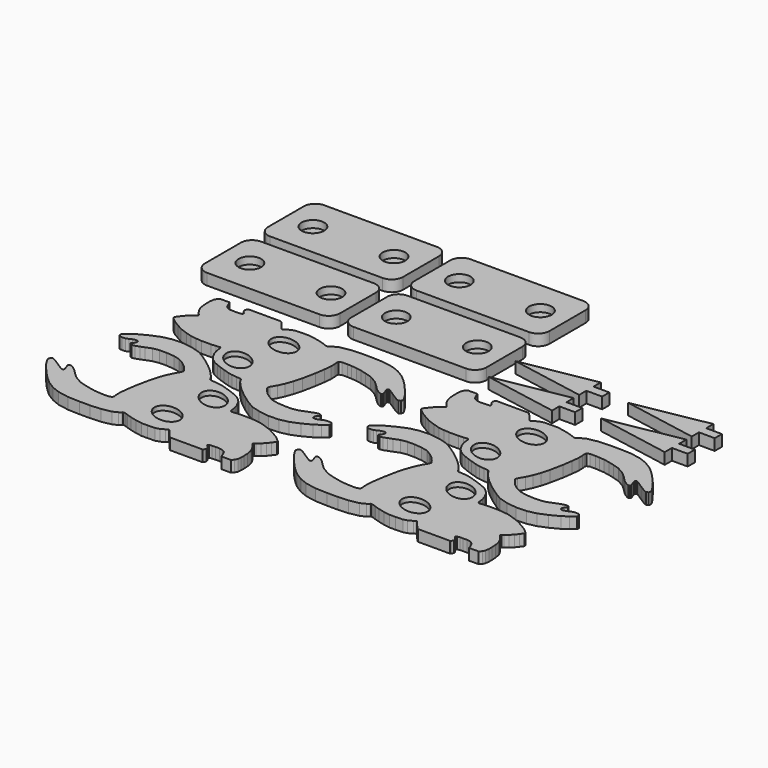
from build123d import *

# Parameters (mm, degrees)
SKETCH020_W               = 16.980982
SKETCH020_H               = 37.458043
PAD013_DEPTH              = 5
PAD012_DEPTH              = 5
POCKET006_DEPTH           = 2
SKETCH017_W               = 16.980982
SKETCH017_H               = 37.458043
PAD011_DEPTH              = 5
PAD010_DEPTH              = 5
POCKET005_DEPTH           = 2
CUT004_PLACEMENT_ANGLE    = 180
SKETCH011_W               = 16.980982
SKETCH011_H               = 37.458043
PAD007_DEPTH              = 5
PAD006_DEPTH              = 5
POCKET003_DEPTH           = 2
SKETCH008_W               = 16.980982
SKETCH008_H               = 37.458043
PAD005_DEPTH              = 5
PAD004_DEPTH              = 5
POCKET002_DEPTH           = 2
CUT001_PLACEMENT_ANGLE    = 180
PAD002_DEPTH              = 5
BODY002_PLACEMENT_ANGLE   = 180
PAD017_DEPTH              = 5
BODY017_PLACEMENT_ANGLE   = 180
PAD018_DEPTH              = 5
BODY018_PLACEMENT_ANGLE   = 180
PAD019_DEPTH              = 5
BODY019_PLACEMENT_ANGLE   = 180
SKETCH004_W               = 30
SKETCH004_H               = 60
PAD003_DEPTH              = 5
FILLET_R                  = 5
SKETCH005_R               = 5
POCKET001_DEPTH           = 3.2
SKETCH021_W               = 30
SKETCH021_H               = 60
PAD014_DEPTH              = 5
FILLET001_R               = 5
SKETCH022_R               = 5
POCKET007_DEPTH           = 3.2
SKETCH023_W               = 30
SKETCH023_H               = 60
PAD015_DEPTH              = 5
FILLET002_R               = 5
SKETCH024_R               = 5
POCKET008_DEPTH           = 3.2
SKETCH025_W               = 30
SKETCH025_H               = 60
PAD016_DEPTH              = 5
FILLET003_R               = 5
SKETCH026_R               = 5
POCKET009_DEPTH           = 3.2
FUSION004_PLACEMENT_ANGLE = 90


with BuildPart() as body013:
    # Sketch020 → Pad013 (new body)
    with BuildSketch(Plane.XY):
        with Locations((-33.035941, -22.865994)):
            Rectangle(SKETCH020_W, SKETCH020_H)
    extrude(amount=PAD013_DEPTH)


with BuildPart() as obj1:
    # Sketch018 → Pad012 (new body)
    with BuildSketch(Plane.XY):
        Polygon((-3.977374, 57.528042), (-4.62839, 57.787308), (-5.059453, 57.756519), (-5.890786, 57.325455), (-8.261625, 55.84753), (-10.724834, 53.907753), (-14.234909, 50.797951), (-16.488501, 48.538963), (-18.459068, 46.291286), (-20.552797, 42.904373), (-21.969143, 39.394299), (-22.874966, 34.517551), (-23.080542, 29.24115), (-23.080542, 24.512947), (-22.806442, 19.921793), (-21.984146, 15.673264), (-20.931427, 13.541588), (-20.196489, 12.576984), (-19.922314, 12.362477), (-19.888332, 12.022666), (-19.956295, 11.501621), (-20.182837, 10.754036), (-20.579283, 9.768582), (-21.205084, 7.728108), (-21.844406, 5.058001), (-22.3333, 2.237465), (-22.3333, -0.47025), (-22.220192, -3.680502), (-21.731298, -5.410431), (-20.753513, -7.215574), (-20.227013, -8.005324), (-20.187271, -8.178533), (-20.233109, -8.386882), (-20.403955, -8.599399), (-20.908161, -8.986929), (-22.154099, -9.994506), (-23.824734, -11.428793), (-25.33345, -13.214621), (-26.903748, -15.52388), (-28.227722, -19.372646), (-28.227722, -22.090714), (-26.90617, -23.999701), (-25.705355, -25.385256), (-24.165846, -26.955553), (-23.303724, -27.325035), (-22.53397, -27.140293), (-21.733427, -26.524492), (-21.056046, -25.877899), (-20.471031, -26.30896), (-20.317081, -27.448195), (-20.255501, -28.895332), (-20.255501, -30.695551), (-20.471138, -32.142689), (-21.333261, -33.589825), (-22.749607, -34.328785), (-24.535435, -34.97538), (-25.582298, -35.652763), (-27.583658, -37.099899), (-26.466297, -38.077568), (-25.434336, -38.015652), (-24.650045, -39.130169), (-23.576805, -40.141491), (-22.482924, -40.636833), (-20.908491, -40.844303), (-19.195435, -40.844303), (-17.214067, -40.741108), (-14.902472, -40.348961), (-13.519643, -39.709145), (-12.508322, -39.08997), (-11.538276, -38.367596), (-10.733345, -37.645222), (-10.258643, -37.397552), (-9.804581, -37.624584), (-9.350516, -38.285038), (-8.316945, -39.69281), (-6.877927, -40.994781), (-5.507432, -42.091175), (-3.999888, -43.187572), (-3.383168, -43.119045), (-2.560872, -42.159702), (-1.327426, -40.652157), (0, -38.417194), (1.533442, -35.719849), (2.718258, -32.467911), (3.579239, -29.654877), (3.906954, -27.184412), (4.108624, -24.638319), (4.108624, -22.999746), (4.108624, -20.463024), (3.950882, -18.319418), (3.762846, -16.514273), (4.439775, -16.100595), (5.680811, -15.950167), (7.072274, -15.724524), (8.726989, -15.198024), (10.118454, -14.483488), (11.434704, -13.731346), (12.720697, -12.473278), (13.886518, -10.893778), (14.676268, -9.088635), (15.503627, -7.020243), (16.181381, -4.980232), (17.046347, -2.347732), (17.460026, -0.39216), (17.687353, 1.724155), (17.83778, 3.679727), (18.213852, 4.206226), (19.793352, 5.108798), (21.786531, 6.876333), (23.565575, 8.639679), (25.862247, 11.349754), (27.837389, 13.922029), (30.042194, 17.137373), (31.780235, 20.102432), (32.951984, 24.119852), (33.621552, 28.723146), (33.454159, 33.242744), (32.617195, 37.09277), (31.026974, 41.026493), (29.018257, 44.876518), (27.344334, 47.387405), (25.67041, 49.479813), (24.637573, 49.479813), (23.898611, 48.926289), (23.775448, 47.756264), (23.867819, 46.309128), (24.329672, 45.139103), (24.914684, 43.938286), (25.222586, 42.645103), (25.068634, 41.690609), (24.329672, 41.382706), (23.282808, 41.813766), (22.297523, 42.737473), (21.62014, 42.367992), (21.373819, 41.567448), (21.589401, 40.264072), (22.205204, 38.601406), (22.882483, 36.809189), (23.867092, 34.246101), (24.328943, 31.56736), (24.328943, 28.388382), (24.020599, 24.939888), (23.372599, 22.159571), (22.079414, 19.819519), (20.478329, 17.75658), (18.692501, 16.186285), (17.614847, 15.385742), (17.152994, 15.139421), (16.1985, 15.478112), (13.704499, 16.925249), (11.109124, 18.146231), (7.96734, 19.268295), (4.264523, 20.278154), (-1.562892, 21.46686), (-5.742837, 22.063995), (-9.050048, 22.431463), (-11.300789, 22.339596), (-12.586926, 22.201796), (-13.275928, 22.38553), (-13.781198, 23.5798), (-13.781198, 26.014275), (-13.667527, 27.819324), (-13.502415, 30.069002), (-12.986451, 32.615383), (-12.346076, 35.158173), (-11.499866, 38.027027), (-9.518498, 41.45314), (-7.679979, 43.467682), (-5.491951, 45.655712), (-4.553504, 46.874596), (-3.885208, 48.075264), (-3.760611, 48.777538), (-3.896535, 49.19664), (-4.281655, 49.434509), (-4.780046, 49.332565), (-5.369052, 49.072044), (-6.037349, 48.834175), (-6.784935, 48.596306), (-7.271997, 48.449055), (-7.738668, 48.585323), (-7.931229, 49.163006), (-7.670706, 49.695377), (-7.149662, 50.533577), (-6.379942, 51.742527), (-5.554372, 53.001522), (-4.708163, 54.322433), (-3.841315, 55.725903), (-3.490448, 56.737225), align=None)
    extrude(amount=PAD012_DEPTH)

    # Sketch019 (on Face188 of Pad012) → Pocket006 (cut)
    with BuildSketch(Plane.XY.offset(5)):
        with BuildLine():
            add(Edge.make_bspline(
                [(-9.103317, 5.942908), (-16.966556, 8.642811), (-16.239961, -2.041503), (-15.513366, -12.725816), (-8.376722, -4.741406), (-1.240078, 3.243005), (-9.103317, 5.942908)],
                knots=[0, 0, 0, 2.094395, 2.094395, 4.18879, 4.18879, 6.283185, 6.283185, 6.283185], degree=2, weights=[1, 0.5, 1, 0.5, 1, 0.5, 1]))
        make_face()
        with BuildLine():
            add(Edge.make_bspline(
                [(10.507138, -0.113946), (3.233814, 3.913307), (2.089769, -6.7344), (0.945724, -17.382107), (9.363093, -10.761653), (17.780461, -4.141199), (10.507138, -0.113946)],
                knots=[0, 0, 0, 2.094395, 2.094395, 4.18879, 4.18879, 6.283185, 6.283185, 6.283185], degree=2, weights=[1, 0.5, 1, 0.5, 1, 0.5, 1]))
        make_face()
    extrude(amount=-POCKET006_DEPTH, mode=Mode.SUBTRACT)

    # Cut005: cut Body013
    add(body013.part, mode=Mode.SUBTRACT)


with BuildPart() as obj1_1:
    # Cut005 placement: moved
    add(obj1.part.moved(Location((-60, 50, -5))))


with BuildPart() as body011:
    # Sketch017 → Pad011 (new body)
    with BuildSketch(Plane.XY):
        with Locations((-33.035941, -22.865994)):
            Rectangle(SKETCH017_W, SKETCH017_H)
    extrude(amount=PAD011_DEPTH)


with BuildPart() as part3:
    # Sketch015 → Pad010 (new body)
    with BuildSketch(Plane.XY):
        Polygon((-3.977374, 57.528042), (-4.62839, 57.787308), (-5.059453, 57.756519), (-5.890786, 57.325455), (-8.261625, 55.84753), (-10.724834, 53.907753), (-14.234909, 50.797951), (-16.488501, 48.538963), (-18.459068, 46.291286), (-20.552797, 42.904373), (-21.969143, 39.394299), (-22.874966, 34.517551), (-23.080542, 29.24115), (-23.080542, 24.512947), (-22.806442, 19.921793), (-21.984146, 15.673264), (-20.931427, 13.541588), (-20.196489, 12.576984), (-19.922314, 12.362477), (-19.888332, 12.022666), (-19.956295, 11.501621), (-20.182837, 10.754036), (-20.579283, 9.768582), (-21.205084, 7.728108), (-21.844406, 5.058001), (-22.3333, 2.237465), (-22.3333, -0.47025), (-22.220192, -3.680502), (-21.731298, -5.410431), (-20.753513, -7.215574), (-20.227013, -8.005324), (-20.187271, -8.178533), (-20.233109, -8.386882), (-20.403955, -8.599399), (-20.908161, -8.986929), (-22.154099, -9.994506), (-23.824734, -11.428793), (-25.33345, -13.214621), (-26.903748, -15.52388), (-28.227722, -19.372646), (-28.227722, -22.090714), (-26.90617, -23.999701), (-25.705355, -25.385256), (-24.165846, -26.955553), (-23.303724, -27.325035), (-22.53397, -27.140293), (-21.733427, -26.524492), (-21.056046, -25.877899), (-20.471031, -26.30896), (-20.317081, -27.448195), (-20.255501, -28.895332), (-20.255501, -30.695551), (-20.471138, -32.142689), (-21.333261, -33.589825), (-22.749607, -34.328785), (-24.535435, -34.97538), (-25.582298, -35.652763), (-27.583658, -37.099899), (-26.466297, -38.077568), (-25.434336, -38.015652), (-24.650045, -39.130169), (-23.576805, -40.141491), (-22.482924, -40.636833), (-20.908491, -40.844303), (-19.195435, -40.844303), (-17.214067, -40.741108), (-14.902472, -40.348961), (-13.519643, -39.709145), (-12.508322, -39.08997), (-11.538276, -38.367596), (-10.733345, -37.645222), (-10.258643, -37.397552), (-9.804581, -37.624584), (-9.350516, -38.285038), (-8.316945, -39.69281), (-6.877927, -40.994781), (-5.507432, -42.091175), (-3.999888, -43.187572), (-3.383168, -43.119045), (-2.560872, -42.159702), (-1.327426, -40.652157), (0, -38.417194), (1.533442, -35.719849), (2.718258, -32.467911), (3.579239, -29.654877), (3.906954, -27.184412), (4.108624, -24.638319), (4.108624, -22.999746), (4.108624, -20.463024), (3.950882, -18.319418), (3.762846, -16.514273), (4.439775, -16.100595), (5.680811, -15.950167), (7.072274, -15.724524), (8.726989, -15.198024), (10.118454, -14.483488), (11.434704, -13.731346), (12.720697, -12.473278), (13.886518, -10.893778), (14.676268, -9.088635), (15.503627, -7.020243), (16.181381, -4.980232), (17.046347, -2.347732), (17.460026, -0.39216), (17.687353, 1.724155), (17.83778, 3.679727), (18.213852, 4.206226), (19.793352, 5.108798), (21.786531, 6.876333), (23.565575, 8.639679), (25.862247, 11.349754), (27.837389, 13.922029), (30.042194, 17.137373), (31.780235, 20.102432), (32.951984, 24.119852), (33.621552, 28.723146), (33.454159, 33.242744), (32.617195, 37.09277), (31.026974, 41.026493), (29.018257, 44.876518), (27.344334, 47.387405), (25.67041, 49.479813), (24.637573, 49.479813), (23.898611, 48.926289), (23.775448, 47.756264), (23.867819, 46.309128), (24.329672, 45.139103), (24.914684, 43.938286), (25.222586, 42.645103), (25.068634, 41.690609), (24.329672, 41.382706), (23.282808, 41.813766), (22.297523, 42.737473), (21.62014, 42.367992), (21.373819, 41.567448), (21.589401, 40.264072), (22.205204, 38.601406), (22.882483, 36.809189), (23.867092, 34.246101), (24.328943, 31.56736), (24.328943, 28.388382), (24.020599, 24.939888), (23.372599, 22.159571), (22.079414, 19.819519), (20.478329, 17.75658), (18.692501, 16.186285), (17.614847, 15.385742), (17.152994, 15.139421), (16.1985, 15.478112), (13.704499, 16.925249), (11.109124, 18.146231), (7.96734, 19.268295), (4.264523, 20.278154), (-1.562892, 21.46686), (-5.742837, 22.063995), (-9.050048, 22.431463), (-11.300789, 22.339596), (-12.586926, 22.201796), (-13.275928, 22.38553), (-13.781198, 23.5798), (-13.781198, 26.014275), (-13.667527, 27.819324), (-13.502415, 30.069002), (-12.986451, 32.615383), (-12.346076, 35.158173), (-11.499866, 38.027027), (-9.518498, 41.45314), (-7.679979, 43.467682), (-5.491951, 45.655712), (-4.553504, 46.874596), (-3.885208, 48.075264), (-3.760611, 48.777538), (-3.896535, 49.19664), (-4.281655, 49.434509), (-4.780046, 49.332565), (-5.369052, 49.072044), (-6.037349, 48.834175), (-6.784935, 48.596306), (-7.271997, 48.449055), (-7.738668, 48.585323), (-7.931229, 49.163006), (-7.670706, 49.695377), (-7.149662, 50.533577), (-6.379942, 51.742527), (-5.554372, 53.001522), (-4.708163, 54.322433), (-3.841315, 55.725903), (-3.490448, 56.737225), align=None)
    extrude(amount=PAD010_DEPTH)

    # Sketch016 (on Face188 of Pad010) → Pocket005 (cut)
    with BuildSketch(Plane.XY.offset(5)):
        with BuildLine():
            add(Edge.make_bspline(
                [(-9.103317, 5.942908), (-16.966556, 8.642811), (-16.239961, -2.041503), (-15.513366, -12.725816), (-8.376722, -4.741406), (-1.240078, 3.243005), (-9.103317, 5.942908)],
                knots=[0, 0, 0, 2.094395, 2.094395, 4.18879, 4.18879, 6.283185, 6.283185, 6.283185], degree=2, weights=[1, 0.5, 1, 0.5, 1, 0.5, 1]))
        make_face()
        with BuildLine():
            add(Edge.make_bspline(
                [(10.507138, -0.113946), (3.233814, 3.913307), (2.089769, -6.7344), (0.945724, -17.382107), (9.363093, -10.761653), (17.780461, -4.141199), (10.507138, -0.113946)],
                knots=[0, 0, 0, 2.094395, 2.094395, 4.18879, 4.18879, 6.283185, 6.283185, 6.283185], degree=2, weights=[1, 0.5, 1, 0.5, 1, 0.5, 1]))
        make_face()
    extrude(amount=-POCKET005_DEPTH, mode=Mode.SUBTRACT)

    # Cut004: cut Body011
    add(body011.part, mode=Mode.SUBTRACT)


with BuildPart() as part3_1:
    # Cut004 placement: moved
    add(part3.part.moved(Location((-17, 50, -5))).rotate(Axis((-17, 50, -5), (0, 0, 1)), CUT004_PLACEMENT_ANGLE))

    # Fusion002: union obj1
    add(obj1_1.part)


with BuildPart() as body007:
    # Sketch011 → Pad007 (new body)
    with BuildSketch(Plane.XY):
        with Locations((-33.035941, -22.865994)):
            Rectangle(SKETCH011_W, SKETCH011_H)
    extrude(amount=PAD007_DEPTH)


with BuildPart() as obj2:
    # Sketch009 → Pad006 (new body)
    with BuildSketch(Plane.XY):
        Polygon((-3.977374, 57.528042), (-4.62839, 57.787308), (-5.059453, 57.756519), (-5.890786, 57.325455), (-8.261625, 55.84753), (-10.724834, 53.907753), (-14.234909, 50.797951), (-16.488501, 48.538963), (-18.459068, 46.291286), (-20.552797, 42.904373), (-21.969143, 39.394299), (-22.874966, 34.517551), (-23.080542, 29.24115), (-23.080542, 24.512947), (-22.806442, 19.921793), (-21.984146, 15.673264), (-20.931427, 13.541588), (-20.196489, 12.576984), (-19.922314, 12.362477), (-19.888332, 12.022666), (-19.956295, 11.501621), (-20.182837, 10.754036), (-20.579283, 9.768582), (-21.205084, 7.728108), (-21.844406, 5.058001), (-22.3333, 2.237465), (-22.3333, -0.47025), (-22.220192, -3.680502), (-21.731298, -5.410431), (-20.753513, -7.215574), (-20.227013, -8.005324), (-20.187271, -8.178533), (-20.233109, -8.386882), (-20.403955, -8.599399), (-20.908161, -8.986929), (-22.154099, -9.994506), (-23.824734, -11.428793), (-25.33345, -13.214621), (-26.903748, -15.52388), (-28.227722, -19.372646), (-28.227722, -22.090714), (-26.90617, -23.999701), (-25.705355, -25.385256), (-24.165846, -26.955553), (-23.303724, -27.325035), (-22.53397, -27.140293), (-21.733427, -26.524492), (-21.056046, -25.877899), (-20.471031, -26.30896), (-20.317081, -27.448195), (-20.255501, -28.895332), (-20.255501, -30.695551), (-20.471138, -32.142689), (-21.333261, -33.589825), (-22.749607, -34.328785), (-24.535435, -34.97538), (-25.582298, -35.652763), (-27.583658, -37.099899), (-26.466297, -38.077568), (-25.434336, -38.015652), (-24.650045, -39.130169), (-23.576805, -40.141491), (-22.482924, -40.636833), (-20.908491, -40.844303), (-19.195435, -40.844303), (-17.214067, -40.741108), (-14.902472, -40.348961), (-13.519643, -39.709145), (-12.508322, -39.08997), (-11.538276, -38.367596), (-10.733345, -37.645222), (-10.258643, -37.397552), (-9.804581, -37.624584), (-9.350516, -38.285038), (-8.316945, -39.69281), (-6.877927, -40.994781), (-5.507432, -42.091175), (-3.999888, -43.187572), (-3.383168, -43.119045), (-2.560872, -42.159702), (-1.327426, -40.652157), (0, -38.417194), (1.533442, -35.719849), (2.718258, -32.467911), (3.579239, -29.654877), (3.906954, -27.184412), (4.108624, -24.638319), (4.108624, -22.999746), (4.108624, -20.463024), (3.950882, -18.319418), (3.762846, -16.514273), (4.439775, -16.100595), (5.680811, -15.950167), (7.072274, -15.724524), (8.726989, -15.198024), (10.118454, -14.483488), (11.434704, -13.731346), (12.720697, -12.473278), (13.886518, -10.893778), (14.676268, -9.088635), (15.503627, -7.020243), (16.181381, -4.980232), (17.046347, -2.347732), (17.460026, -0.39216), (17.687353, 1.724155), (17.83778, 3.679727), (18.213852, 4.206226), (19.793352, 5.108798), (21.786531, 6.876333), (23.565575, 8.639679), (25.862247, 11.349754), (27.837389, 13.922029), (30.042194, 17.137373), (31.780235, 20.102432), (32.951984, 24.119852), (33.621552, 28.723146), (33.454159, 33.242744), (32.617195, 37.09277), (31.026974, 41.026493), (29.018257, 44.876518), (27.344334, 47.387405), (25.67041, 49.479813), (24.637573, 49.479813), (23.898611, 48.926289), (23.775448, 47.756264), (23.867819, 46.309128), (24.329672, 45.139103), (24.914684, 43.938286), (25.222586, 42.645103), (25.068634, 41.690609), (24.329672, 41.382706), (23.282808, 41.813766), (22.297523, 42.737473), (21.62014, 42.367992), (21.373819, 41.567448), (21.589401, 40.264072), (22.205204, 38.601406), (22.882483, 36.809189), (23.867092, 34.246101), (24.328943, 31.56736), (24.328943, 28.388382), (24.020599, 24.939888), (23.372599, 22.159571), (22.079414, 19.819519), (20.478329, 17.75658), (18.692501, 16.186285), (17.614847, 15.385742), (17.152994, 15.139421), (16.1985, 15.478112), (13.704499, 16.925249), (11.109124, 18.146231), (7.96734, 19.268295), (4.264523, 20.278154), (-1.562892, 21.46686), (-5.742837, 22.063995), (-9.050048, 22.431463), (-11.300789, 22.339596), (-12.586926, 22.201796), (-13.275928, 22.38553), (-13.781198, 23.5798), (-13.781198, 26.014275), (-13.667527, 27.819324), (-13.502415, 30.069002), (-12.986451, 32.615383), (-12.346076, 35.158173), (-11.499866, 38.027027), (-9.518498, 41.45314), (-7.679979, 43.467682), (-5.491951, 45.655712), (-4.553504, 46.874596), (-3.885208, 48.075264), (-3.760611, 48.777538), (-3.896535, 49.19664), (-4.281655, 49.434509), (-4.780046, 49.332565), (-5.369052, 49.072044), (-6.037349, 48.834175), (-6.784935, 48.596306), (-7.271997, 48.449055), (-7.738668, 48.585323), (-7.931229, 49.163006), (-7.670706, 49.695377), (-7.149662, 50.533577), (-6.379942, 51.742527), (-5.554372, 53.001522), (-4.708163, 54.322433), (-3.841315, 55.725903), (-3.490448, 56.737225), align=None)
    extrude(amount=PAD006_DEPTH)

    # Sketch010 (on Face188 of Pad006) → Pocket003 (cut)
    with BuildSketch(Plane.XY.offset(5)):
        with BuildLine():
            add(Edge.make_bspline(
                [(-9.103317, 5.942908), (-16.966556, 8.642811), (-16.239961, -2.041503), (-15.513366, -12.725816), (-8.376722, -4.741406), (-1.240078, 3.243005), (-9.103317, 5.942908)],
                knots=[0, 0, 0, 2.094395, 2.094395, 4.18879, 4.18879, 6.283185, 6.283185, 6.283185], degree=2, weights=[1, 0.5, 1, 0.5, 1, 0.5, 1]))
        make_face()
        with BuildLine():
            add(Edge.make_bspline(
                [(10.507138, -0.113946), (3.233814, 3.913307), (2.089769, -6.7344), (0.945724, -17.382107), (9.363093, -10.761653), (17.780461, -4.141199), (10.507138, -0.113946)],
                knots=[0, 0, 0, 2.094395, 2.094395, 4.18879, 4.18879, 6.283185, 6.283185, 6.283185], degree=2, weights=[1, 0.5, 1, 0.5, 1, 0.5, 1]))
        make_face()
    extrude(amount=-POCKET003_DEPTH, mode=Mode.SUBTRACT)

    # Cut002: cut Body007
    add(body007.part, mode=Mode.SUBTRACT)


with BuildPart() as obj2_1:
    # Cut002 placement: moved
    add(obj2.part.moved(Location((-60, -60, -5))))


with BuildPart() as body005:
    # Sketch008 → Pad005 (new body)
    with BuildSketch(Plane.XY):
        with Locations((-33.035941, -22.865994)):
            Rectangle(SKETCH008_W, SKETCH008_H)
    extrude(amount=PAD005_DEPTH)


with BuildPart() as part4:
    # Sketch006 → Pad004 (new body)
    with BuildSketch(Plane.XY):
        Polygon((-3.977374, 57.528042), (-4.62839, 57.787308), (-5.059453, 57.756519), (-5.890786, 57.325455), (-8.261625, 55.84753), (-10.724834, 53.907753), (-14.234909, 50.797951), (-16.488501, 48.538963), (-18.459068, 46.291286), (-20.552797, 42.904373), (-21.969143, 39.394299), (-22.874966, 34.517551), (-23.080542, 29.24115), (-23.080542, 24.512947), (-22.806442, 19.921793), (-21.984146, 15.673264), (-20.931427, 13.541588), (-20.196489, 12.576984), (-19.922314, 12.362477), (-19.888332, 12.022666), (-19.956295, 11.501621), (-20.182837, 10.754036), (-20.579283, 9.768582), (-21.205084, 7.728108), (-21.844406, 5.058001), (-22.3333, 2.237465), (-22.3333, -0.47025), (-22.220192, -3.680502), (-21.731298, -5.410431), (-20.753513, -7.215574), (-20.227013, -8.005324), (-20.187271, -8.178533), (-20.233109, -8.386882), (-20.403955, -8.599399), (-20.908161, -8.986929), (-22.154099, -9.994506), (-23.824734, -11.428793), (-25.33345, -13.214621), (-26.903748, -15.52388), (-28.227722, -19.372646), (-28.227722, -22.090714), (-26.90617, -23.999701), (-25.705355, -25.385256), (-24.165846, -26.955553), (-23.303724, -27.325035), (-22.53397, -27.140293), (-21.733427, -26.524492), (-21.056046, -25.877899), (-20.471031, -26.30896), (-20.317081, -27.448195), (-20.255501, -28.895332), (-20.255501, -30.695551), (-20.471138, -32.142689), (-21.333261, -33.589825), (-22.749607, -34.328785), (-24.535435, -34.97538), (-25.582298, -35.652763), (-27.583658, -37.099899), (-26.466297, -38.077568), (-25.434336, -38.015652), (-24.650045, -39.130169), (-23.576805, -40.141491), (-22.482924, -40.636833), (-20.908491, -40.844303), (-19.195435, -40.844303), (-17.214067, -40.741108), (-14.902472, -40.348961), (-13.519643, -39.709145), (-12.508322, -39.08997), (-11.538276, -38.367596), (-10.733345, -37.645222), (-10.258643, -37.397552), (-9.804581, -37.624584), (-9.350516, -38.285038), (-8.316945, -39.69281), (-6.877927, -40.994781), (-5.507432, -42.091175), (-3.999888, -43.187572), (-3.383168, -43.119045), (-2.560872, -42.159702), (-1.327426, -40.652157), (0, -38.417194), (1.533442, -35.719849), (2.718258, -32.467911), (3.579239, -29.654877), (3.906954, -27.184412), (4.108624, -24.638319), (4.108624, -22.999746), (4.108624, -20.463024), (3.950882, -18.319418), (3.762846, -16.514273), (4.439775, -16.100595), (5.680811, -15.950167), (7.072274, -15.724524), (8.726989, -15.198024), (10.118454, -14.483488), (11.434704, -13.731346), (12.720697, -12.473278), (13.886518, -10.893778), (14.676268, -9.088635), (15.503627, -7.020243), (16.181381, -4.980232), (17.046347, -2.347732), (17.460026, -0.39216), (17.687353, 1.724155), (17.83778, 3.679727), (18.213852, 4.206226), (19.793352, 5.108798), (21.786531, 6.876333), (23.565575, 8.639679), (25.862247, 11.349754), (27.837389, 13.922029), (30.042194, 17.137373), (31.780235, 20.102432), (32.951984, 24.119852), (33.621552, 28.723146), (33.454159, 33.242744), (32.617195, 37.09277), (31.026974, 41.026493), (29.018257, 44.876518), (27.344334, 47.387405), (25.67041, 49.479813), (24.637573, 49.479813), (23.898611, 48.926289), (23.775448, 47.756264), (23.867819, 46.309128), (24.329672, 45.139103), (24.914684, 43.938286), (25.222586, 42.645103), (25.068634, 41.690609), (24.329672, 41.382706), (23.282808, 41.813766), (22.297523, 42.737473), (21.62014, 42.367992), (21.373819, 41.567448), (21.589401, 40.264072), (22.205204, 38.601406), (22.882483, 36.809189), (23.867092, 34.246101), (24.328943, 31.56736), (24.328943, 28.388382), (24.020599, 24.939888), (23.372599, 22.159571), (22.079414, 19.819519), (20.478329, 17.75658), (18.692501, 16.186285), (17.614847, 15.385742), (17.152994, 15.139421), (16.1985, 15.478112), (13.704499, 16.925249), (11.109124, 18.146231), (7.96734, 19.268295), (4.264523, 20.278154), (-1.562892, 21.46686), (-5.742837, 22.063995), (-9.050048, 22.431463), (-11.300789, 22.339596), (-12.586926, 22.201796), (-13.275928, 22.38553), (-13.781198, 23.5798), (-13.781198, 26.014275), (-13.667527, 27.819324), (-13.502415, 30.069002), (-12.986451, 32.615383), (-12.346076, 35.158173), (-11.499866, 38.027027), (-9.518498, 41.45314), (-7.679979, 43.467682), (-5.491951, 45.655712), (-4.553504, 46.874596), (-3.885208, 48.075264), (-3.760611, 48.777538), (-3.896535, 49.19664), (-4.281655, 49.434509), (-4.780046, 49.332565), (-5.369052, 49.072044), (-6.037349, 48.834175), (-6.784935, 48.596306), (-7.271997, 48.449055), (-7.738668, 48.585323), (-7.931229, 49.163006), (-7.670706, 49.695377), (-7.149662, 50.533577), (-6.379942, 51.742527), (-5.554372, 53.001522), (-4.708163, 54.322433), (-3.841315, 55.725903), (-3.490448, 56.737225), align=None)
    extrude(amount=PAD004_DEPTH)

    # Sketch007 (on Face188 of Pad004) → Pocket002 (cut)
    with BuildSketch(Plane.XY.offset(5)):
        with BuildLine():
            add(Edge.make_bspline(
                [(-9.103317, 5.942908), (-16.966556, 8.642811), (-16.239961, -2.041503), (-15.513366, -12.725816), (-8.376722, -4.741406), (-1.240078, 3.243005), (-9.103317, 5.942908)],
                knots=[0, 0, 0, 2.094395, 2.094395, 4.18879, 4.18879, 6.283185, 6.283185, 6.283185], degree=2, weights=[1, 0.5, 1, 0.5, 1, 0.5, 1]))
        make_face()
        with BuildLine():
            add(Edge.make_bspline(
                [(10.507138, -0.113946), (3.233814, 3.913307), (2.089769, -6.7344), (0.945724, -17.382107), (9.363093, -10.761653), (17.780461, -4.141199), (10.507138, -0.113946)],
                knots=[0, 0, 0, 2.094395, 2.094395, 4.18879, 4.18879, 6.283185, 6.283185, 6.283185], degree=2, weights=[1, 0.5, 1, 0.5, 1, 0.5, 1]))
        make_face()
    extrude(amount=-POCKET002_DEPTH, mode=Mode.SUBTRACT)

    # Cut001: cut Body005
    add(body005.part, mode=Mode.SUBTRACT)


with BuildPart() as part4_1:
    # Cut001 placement: moved
    add(part4.part.moved(Location((-17, -60, -5))).rotate(Axis((-17, -60, -5), (0, 0, 1)), CUT001_PLACEMENT_ANGLE))

    # Fusion003: union obj2
    add(obj2_1.part)


with BuildPart() as obj3:
    # Sketch003 → Pad002 (new body)
    with BuildSketch(Plane.XY):
        Polygon((-2, 10), (2, 10), (2, 3), (6, 3), (0, -30), (-6, 3), (-2, 3), align=None)
    extrude(amount=PAD002_DEPTH)


with BuildPart() as obj3_1:
    # Body002 placement: moved
    add(obj3.part.moved(Location((20, -50, -5))).rotate(Axis((20, -50, -5), (0, 0, 1)), BODY002_PLACEMENT_ANGLE))


with BuildPart() as obj4:
    # Sketch027 → Pad017 (new body)
    with BuildSketch(Plane.XY):
        Polygon((-2, 10), (2, 10), (2, 3), (6, 3), (0, -30), (-6, 3), (-2, 3), align=None)
    extrude(amount=PAD017_DEPTH)


with BuildPart() as obj4_1:
    # Body017 placement: moved
    add(obj4.part.moved(Location((35, -50, -5))).rotate(Axis((35, -50, -5), (0, 0, 1)), BODY017_PLACEMENT_ANGLE))


with BuildPart() as obj5:
    # Sketch028 → Pad018 (new body)
    with BuildSketch(Plane.XY):
        Polygon((-2, 10), (2, 10), (2, 3), (6, 3), (0, -30), (-6, 3), (-2, 3), align=None)
    extrude(amount=PAD018_DEPTH)


with BuildPart() as obj5_1:
    # Body018 placement: moved
    add(obj5.part.moved(Location((20, -100, -5))).rotate(Axis((20, -100, -5), (0, 0, 1)), BODY018_PLACEMENT_ANGLE))


with BuildPart() as part1:
    # Sketch029 → Pad019 (new body)
    with BuildSketch(Plane.XY):
        Polygon((-2, 10), (2, 10), (2, 3), (6, 3), (0, -30), (-6, 3), (-2, 3), align=None)
    extrude(amount=PAD019_DEPTH)


with BuildPart() as part1_1:
    # Body019 placement: moved
    add(part1.part.moved(Location((35, -100, -5))).rotate(Axis((35, -100, -5), (0, 0, 1)), BODY019_PLACEMENT_ANGLE))

    # Fusion: union obj3, obj4, obj5
    add(obj3_1.part)
    add(obj4_1.part)
    add(obj5_1.part)


with BuildPart() as obj6:
    # Sketch004 → Pad003 (new body)
    with BuildSketch(Plane.XY):
        Rectangle(SKETCH004_W, SKETCH004_H)
    extrude(amount=PAD003_DEPTH)

    # Fillet
    fillet_edges = [obj6.edges().sort_by_distance(p)[0] for p in [
        (-15, 30, 2.5),
        (-15, -30, 2.5),
        (15, -30, 2.5),
        (15, 30, 2.5),
    ]]
    fillet(fillet_edges, radius=FILLET_R)

    # Sketch005 (on Face5 of Fillet) → Pocket001 (cut)
    with BuildSketch(Plane.XY.offset(5)):
        with Locations((0, 18)):
            Circle(SKETCH005_R)
        with Locations((0, -18)):
            Circle(SKETCH005_R)
    extrude(amount=-POCKET001_DEPTH, mode=Mode.SUBTRACT)


with BuildPart() as obj6_1:
    # Body003 placement: moved
    add(obj6.part.moved(Location((35, 80, -5))))


with BuildPart() as obj7:
    # Sketch021 → Pad014 (new body)
    with BuildSketch(Plane.XY):
        Rectangle(SKETCH021_W, SKETCH021_H)
    extrude(amount=PAD014_DEPTH)

    # Fillet001
    fillet001_edges = [obj7.edges().sort_by_distance(p)[0] for p in [
        (-15, 30, 2.5),
        (-15, -30, 2.5),
        (15, -30, 2.5),
        (15, 30, 2.5),
    ]]
    fillet(fillet001_edges, radius=FILLET001_R)

    # Sketch022 (on Face5 of Fillet001) → Pocket007 (cut)
    with BuildSketch(Plane.XY.offset(5)):
        with Locations((0, 18)):
            Circle(SKETCH022_R)
        with Locations((0, -18)):
            Circle(SKETCH022_R)
    extrude(amount=-POCKET007_DEPTH, mode=Mode.SUBTRACT)


with BuildPart() as obj7_1:
    # Body014 placement: moved
    add(obj7.part.moved(Location((35, 15, -5))))


with BuildPart() as obj8:
    # Sketch023 → Pad015 (new body)
    with BuildSketch(Plane.XY):
        Rectangle(SKETCH023_W, SKETCH023_H)
    extrude(amount=PAD015_DEPTH)

    # Fillet002
    fillet002_edges = [obj8.edges().sort_by_distance(p)[0] for p in [
        (-15, 30, 2.5),
        (-15, -30, 2.5),
        (15, -30, 2.5),
        (15, 30, 2.5),
    ]]
    fillet(fillet002_edges, radius=FILLET002_R)

    # Sketch024 (on Face5 of Fillet002) → Pocket008 (cut)
    with BuildSketch(Plane.XY.offset(5)):
        with Locations((0, 18)):
            Circle(SKETCH024_R)
        with Locations((0, -18)):
            Circle(SKETCH024_R)
    extrude(amount=-POCKET008_DEPTH, mode=Mode.SUBTRACT)


with BuildPart() as obj8_1:
    # Body015 placement: moved
    add(obj8.part.moved(Location((70, 80, -5))))


with BuildPart() as model_all:
    # Sketch025 → Pad016 (new body)
    with BuildSketch(Plane.XY):
        Rectangle(SKETCH025_W, SKETCH025_H)
    extrude(amount=PAD016_DEPTH)

    # Fillet003
    fillet003_edges = [model_all.edges().sort_by_distance(p)[0] for p in [
        (-15, 30, 2.5),
        (-15, -30, 2.5),
        (15, -30, 2.5),
        (15, 30, 2.5),
    ]]
    fillet(fillet003_edges, radius=FILLET003_R)

    # Sketch026 (on Face5 of Fillet003) → Pocket009 (cut)
    with BuildSketch(Plane.XY.offset(5)):
        with Locations((0, 18)):
            Circle(SKETCH026_R)
        with Locations((0, -18)):
            Circle(SKETCH026_R)
    extrude(amount=-POCKET009_DEPTH, mode=Mode.SUBTRACT)


with BuildPart() as model_all_1:
    # Body016 placement: moved
    add(model_all.part.moved(Location((70, 15, -5))))

    # Fusion001: union obj6, obj7, obj8
    add(obj6_1.part)
    add(obj7_1.part)
    add(obj8_1.part)

    # Fusion004: union Part3, Part4, Part1
    add(part3_1.part)
    add(part4_1.part)
    add(part1_1.part)


with BuildPart() as model_all_2:
    # Fusion004 placement: moved
    add(model_all_1.part.rotate(Axis((0, 0, 0), (0, 0, 1)), FUSION004_PLACEMENT_ANGLE))


solid = model_all_2.part
